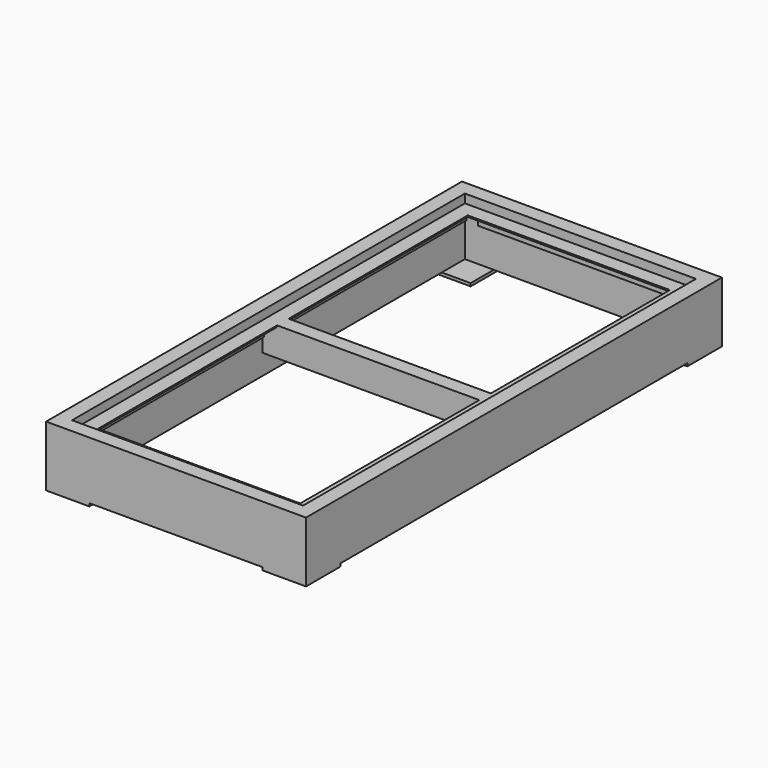
from build123d import *

# Parameters (mm, degrees)
F0_W      = 900
F0_H      = 1800
F0_W_2    = 800
F0_H_2    = 50
F1_DEPTH  = 200
F2_W      = 800
F2_H      = 30
F3_DEPTH  = 50
F4_W      = 800
F4_H      = 70
F5_DEPTH  = 50
F6_W      = 150
F6_H      = 150
F7_DEPTH  = 10
F9_DEPTH  = 825
F11_DEPTH = 825


with BuildPart() as f1:
    # F0 (on Top) → F1 (new body)
    with BuildSketch(Plane.XY):
        with Locations((450, 900)):
            Rectangle(F0_W, F0_H)
        Polygon((850, 50), (50, 50), (50, 875), (50, 925), (50, 1750), (850, 1750), (850, 925), (850, 875), align=None, mode=Mode.SUBTRACT)
        with Locations((450, 900)):
            Rectangle(F0_W_2, F0_H_2)
    extrude(amount=-F1_DEPTH)

    # F2 (on face) → F3 (cut, through all)
    with BuildSketch(Plane.XZ.offset(-875)):
        with Locations((450, -15)):
            Rectangle(F2_W, F2_H)
    extrude(amount=-F3_DEPTH, mode=Mode.SUBTRACT)

    # F4 (on face) → F5 (cut, through all)
    with BuildSketch(Plane.XZ.offset(-875)):
        with Locations((450, -165)):
            Rectangle(F4_W, F4_H)
    extrude(amount=-F5_DEPTH, mode=Mode.SUBTRACT)

    # F6 (on face) → F7 (join)
    with BuildSketch(Plane(origin=(0, 0, -200), x_dir=(1, 0, 0), z_dir=(0, 0, -1))):
        with Locations((75, -75)):
            Rectangle(F6_W, F6_H)
        with Locations((825, -75)):
            Rectangle(F6_W, F6_H)
        with Locations((75, -1725)):
            Rectangle(F6_W, F6_H)
        with Locations((825, -1725)):
            Rectangle(F6_W, F6_H)
    extrude(amount=F7_DEPTH)

    # F8 (on face) → F9 (join, through all)
    with BuildSketch(Plane.XZ.offset(-1750)):
        Polygon((100, -30), (50, -30), (50, -80), (55, -80), (55, -35), (100, -35), align=None)
        Polygon((845, -35), (845, -80), (850, -80), (850, -30), (800, -30), (800, -35), align=None)
    extrude(amount=F9_DEPTH)

    # F10 (on face) → F11 (join, through all)
    with BuildSketch(Plane(origin=(0, 50, 0), x_dir=(-1, 0, 0), z_dir=(0, 1, 0))):
        Polygon((-800, -30), (-850, -30), (-850, -80), (-845, -80), (-845, -35), (-800, -35), align=None)
        Polygon((-55, -35), (-55, -80), (-50, -80), (-50, -30), (-100, -30), (-100, -35), align=None)
    extrude(amount=F11_DEPTH)

    # F12 (on face) → F13 (join, up to the next surface of F1)
    with BuildSketch(Plane.YZ.offset(100)):
        Polygon((100, -30), (50, -30), (50, -80), (55, -80), (55, -35), (100, -35), align=None)
    extrude(until=Until.NEXT)

    # F14 (on face) → F15 (join, up to the next surface of F1)
    with BuildSketch(Plane.YZ.offset(100)):
        Polygon((1750, -80), (1750, -30), (1700, -30), (1700, -35), (1745, -35), (1745, -80), align=None)
    extrude(until=Until.NEXT)


solid = f1.part
